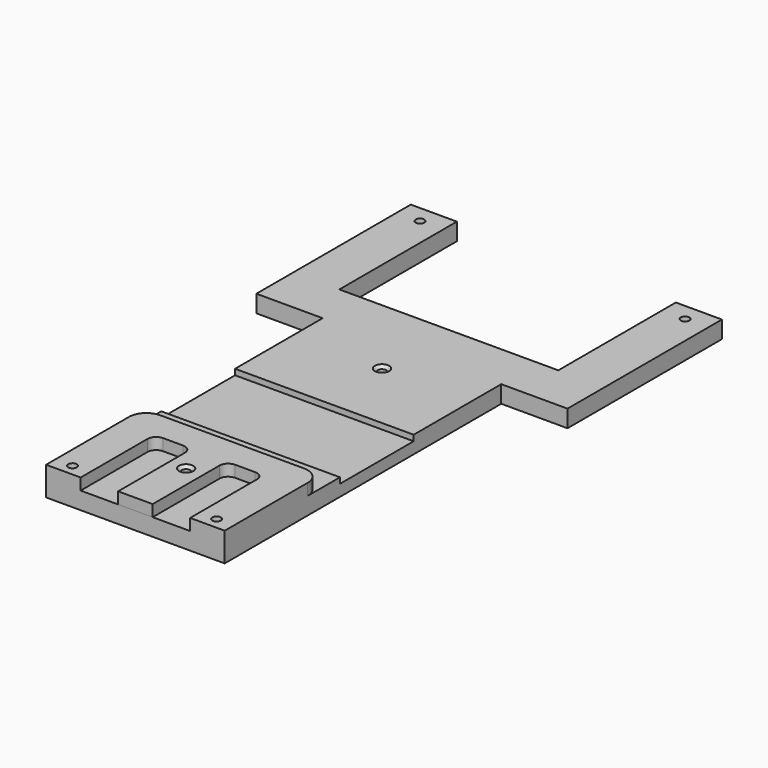
from build123d import *

# Parameters (mm, degrees)
SKETCH_R        = 1.5
PAD_DEPTH       = 6
SKETCH001_R     = 1.5
PAD001_DEPTH    = 4
SKETCH002_R     = 1.5
POCKET_DEPTH    = 10
CHAMFER_SIZE    = 1
SKETCH003_W     = 100
SKETCH003_H     = 32
POCKET001_DEPTH = 2


with BuildPart() as part:
    # Sketch → Pad (new body)
    with BuildSketch(Plane.XY):
        Polygon((-38, 29), (38, 29), (38, 80), (54, 80), (54, 13), (31, 13), (31, -107), (-31, -107), (-31, 13), (-54, 13), (-54, 80), (-38, 80), align=None)
        Circle(SKETCH_R, mode=Mode.SUBTRACT)
        with Locations((0, -85)):
            Circle(SKETCH_R, mode=Mode.SUBTRACT)
        with Locations((46, 74)):
            Circle(SKETCH_R, mode=Mode.SUBTRACT)
        with Locations((-46, 74)):
            Circle(SKETCH_R, mode=Mode.SUBTRACT)
    extrude(amount=PAD_DEPTH)

    # Sketch001 (on Face18 of Pad) → Pad001 (join)
    with BuildSketch(Plane.XY.offset(6)):
        with BuildLine():
            Line((31, -71), (31, -107))
            Line((19, -107), (31, -107))
            Line((19, -78.000015), (19, -107))
            ThreePointArc((19, -78.000015), (18.12132, -75.878696), (16.000001, -75.000016))
            Line((8.999999, -75.000016), (16.000001, -75.000016))
            ThreePointArc((8.999999, -75.000016), (6.878678, -75.878697), (6, -78.000019))
            Line((6, -107.000009), (6, -78.000019))
            Line((-6, -107.000009), (6, -107.000009))
            Line((-6, -78.000019), (-6, -107.000009))
            ThreePointArc((-6, -78.000019), (-6.878676, -75.878693), (-8.999999, -75.000009))
            Line((-16.000001, -75.000009), (-8.999999, -75.000009))
            ThreePointArc((-16.000001, -75.000009), (-18.12132, -75.878689), (-19, -78.000009))
            Line((-19, -107), (-19, -78.000009))
            Line((-31, -107), (-19, -107))
            Line((-31, -107), (-31, -71))
            ThreePointArc((-25, -65), (-29.242641, -66.757359), (-31, -71))
            Line((-25, -65), (25, -65))
            ThreePointArc((31, -71), (29.242641, -66.757359), (25, -65))
        make_face()
        with Locations((0, -85)):
            Circle(SKETCH001_R, mode=Mode.SUBTRACT)
    extrude(amount=PAD001_DEPTH)

    # Sketch002 (on Face30 of Pad001) → Pocket (cut)
    with BuildSketch(Plane.XY.offset(10)):
        with Locations((-25, -103)):
            Circle(SKETCH002_R)
        with Locations((25, -103)):
            Circle(SKETCH002_R)
    extrude(amount=-POCKET_DEPTH, mode=Mode.SUBTRACT)

    # Chamfer
    chamfer_edges = [part.edges().sort_by_distance(p)[0] for p in [
        (23.5, -103, 0),
        (-26.5, -103, 0),
        (-47.5, 74, 0),
        (44.5, 74, 0),
        (-1.5, -85, 10),
        (-1.5, 0, 6),
    ]]
    chamfer(chamfer_edges, length=CHAMFER_SIZE)

    # Sketch003 (on Face21 of Chamfer) → Pocket001 (cut)
    with BuildSketch(Plane.XY.offset(6)):
        with Locations((0, -41)):
            Rectangle(SKETCH003_W, SKETCH003_H)
    extrude(amount=-POCKET001_DEPTH, mode=Mode.SUBTRACT)


solid = part.part
